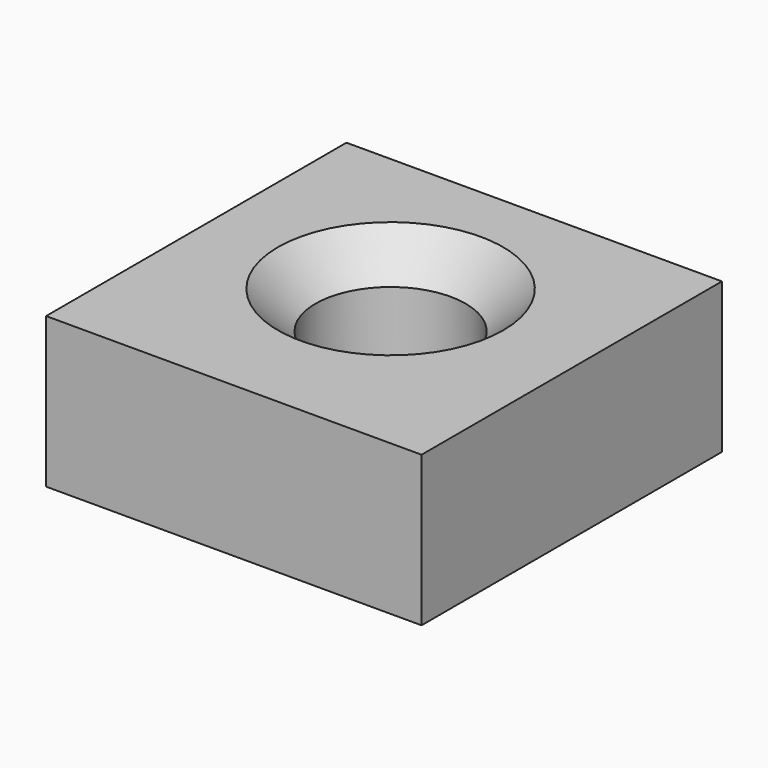
from build123d import *

# Parameters (mm, degrees)
F0_W     = 50
F0_H     = 50
F1_DEPTH = 20
F2_R     = 10
F3_DEPTH = 25
F4_SIZE  = 5


with BuildPart() as f1:
    # F0 (on Top) → F1 (new body)
    with BuildSketch(Plane.XY):
        with Locations((25, 25)):
            Rectangle(F0_W, F0_H)
    extrude(amount=F1_DEPTH)

    # F2 (on face) → F3 (cut)
    with BuildSketch(Plane.XY.offset(20)):
        with Locations((24.133066, 27.181452)):
            Circle(F2_R)
    extrude(amount=-F3_DEPTH, mode=Mode.SUBTRACT)

    # F4
    f4_edges = [f1.edges().sort_by_distance(p)[0] for p in [
        (14.133066, 27.181452, 20),
        (14.133066, 27.181452, 0),
    ]]
    chamfer(f4_edges, length=F4_SIZE)


solid = f1.part
